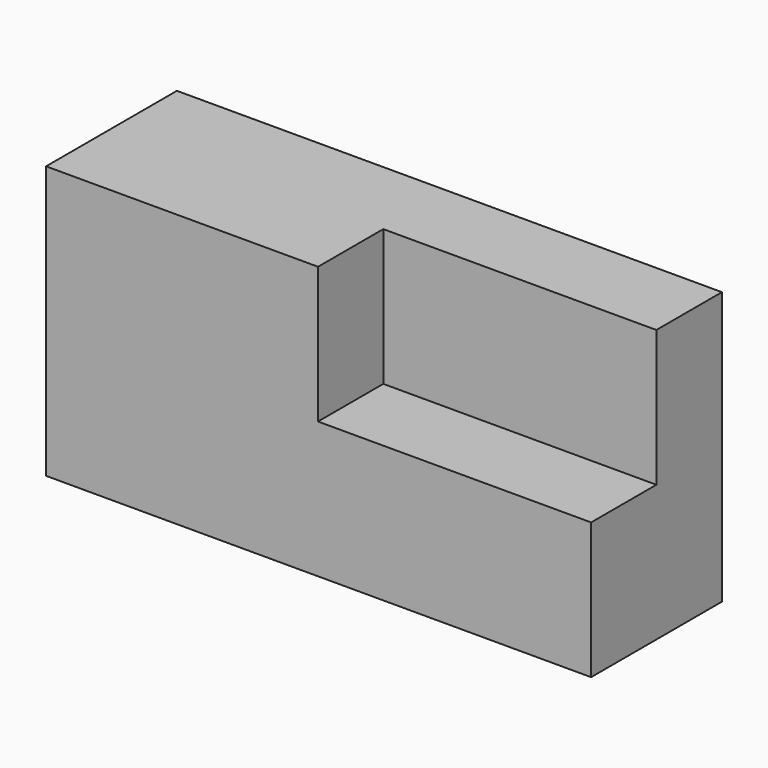
from build123d import *

# Parameters (mm, degrees)
F0_W     = 127
F0_H     = 63.5
F1_DEPTH = 38.1
F3_DEPTH = 60.96


with BuildPart() as f1:
    # F0 (on Front) → F1 (new body)
    with BuildSketch(Plane.XZ):
        Rectangle(F0_W, F0_H)
    extrude(amount=F1_DEPTH)

    # F2 (on Top) → F3 (cut)
    with BuildSketch(Plane.XY):
        Polygon((-0.134974, -19.093526), (-0.134974, -35.547902), (-0.134974, -38.143526), (63.365026, -38.143526), (74.700989, -38.143526), (74.700989, -19.093526), (63.365026, -19.093526), align=None)
    extrude(amount=F3_DEPTH, mode=Mode.SUBTRACT)


solid = f1.part
